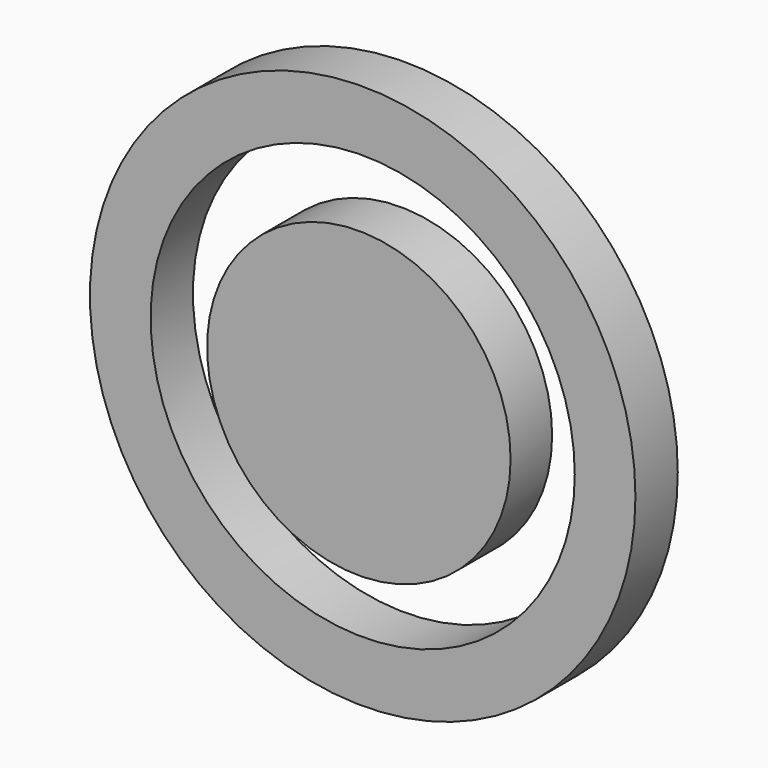
from build123d import *

# Parameters (mm, degrees)
F0_R     = 69.368802
F0_R_2   = 53.940896
F1_DEPTH = 13.462
F2_R     = 38.602197
F3_DEPTH = 13.208


with BuildPart() as f1:
    # F0 (on Front) → F1 (new body)
    with BuildSketch(Plane.XZ):
        with Locations((-35.724021, 31.295426)):
            Circle(F0_R)
        with Locations((-35.724021, 31.295426)):
            Circle(F0_R_2, mode=Mode.SUBTRACT)
    extrude(amount=F1_DEPTH)


with BuildPart() as f3:
    # F2 (on Front) → F3 (new body)
    with BuildSketch(Plane.XZ):
        with Locations((-36.910988, 29.250469)):
            Circle(F2_R)
    extrude(amount=F3_DEPTH)


solid = Compound([f1.part, f3.part])
